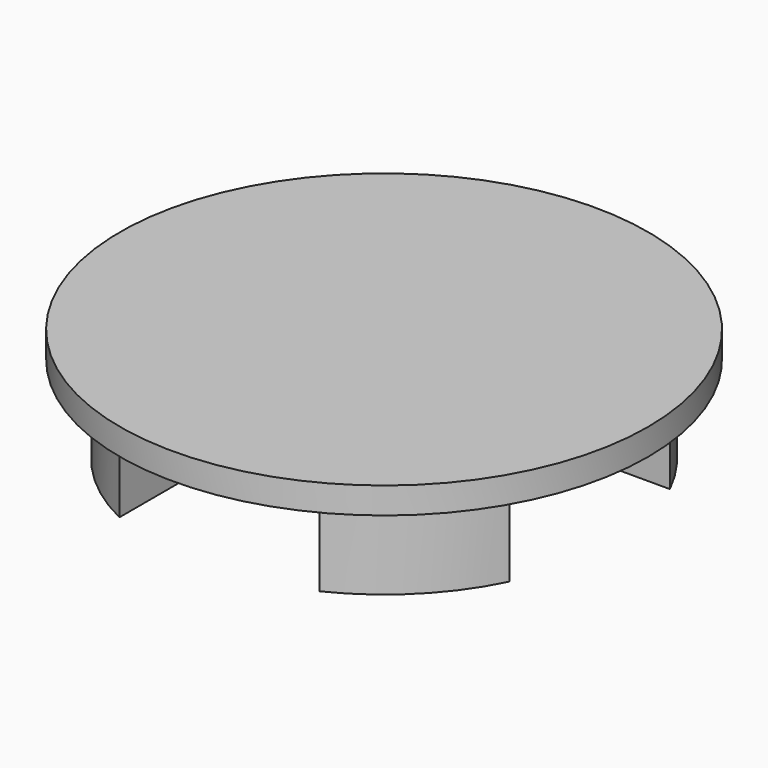
from build123d import *

# Parameters (mm, degrees)
F1_DEPTH = 10
F0_R     = 30
F2_DEPTH = 3


with BuildPart() as f1:
    # F0 (on Top) → F1 (new body)
    with BuildSketch(Plane.XY):
        with BuildLine():
            ThreePointArc((-23.378147, -11.378147), (-18.384776, -18.384776), (-11.378147, -23.378147))
            Line((-11.378147, -23.378147), (-11.378147, -11.378147))
            Line((-11.378147, -11.378147), (-23.378147, -11.378147))
        make_face()
        with BuildLine():
            ThreePointArc((11.378147, -23.378147), (18.384776, -18.384776), (23.378147, -11.378147))
            Line((23.378147, -11.378147), (11.378147, -11.378147))
            Line((11.378147, -11.378147), (11.378147, -23.378147))
        make_face()
        with BuildLine():
            Line((11.378147, 11.378147), (23.378147, 11.378147))
            ThreePointArc((23.378147, 11.378147), (18.384776, 18.384776), (11.378147, 23.378147))
            Line((11.378147, 23.378147), (11.378147, 11.378147))
        make_face()
        with BuildLine():
            Line((-11.378147, 11.378147), (-11.378147, 23.378147))
            ThreePointArc((-11.378147, 23.378147), (-18.384776, 18.384776), (-23.378147, 11.378147))
            Line((-23.378147, 11.378147), (-11.378147, 11.378147))
        make_face()
    extrude(amount=-F1_DEPTH)

    # F0 (on Top) → F2 (join)
    with BuildSketch(Plane.XY):
        Circle(F0_R)
        with BuildLine():
            ThreePointArc((23.378147, 11.378147), (25.33606, 5.838158), (26, 0))
            ThreePointArc((26, 0), (25.33606, -5.838158), (23.378147, -11.378147))
            ThreePointArc((23.378147, -11.378147), (18.384776, -18.384776), (11.378147, -23.378147))
            ThreePointArc((11.378147, -23.378147), (0, -26), (-11.378147, -23.378147))
            ThreePointArc((-11.378147, -23.378147), (-18.384776, -18.384776), (-23.378147, -11.378147))
            ThreePointArc((-23.378147, -11.378147), (-26, 0), (-23.378147, 11.378147))
            ThreePointArc((-23.378147, 11.378147), (-18.384776, 18.384776), (-11.378147, 23.378147))
            ThreePointArc((-11.378147, 23.378147), (0, 26), (11.378147, 23.378147))
            ThreePointArc((11.378147, 23.378147), (18.384776, 18.384776), (23.378147, 11.378147))
        make_face(mode=Mode.SUBTRACT)
        with BuildLine():
            Line((-11.378147, 11.378147), (-11.378147, 23.378147))
            ThreePointArc((-11.378147, 23.378147), (-18.384776, 18.384776), (-23.378147, 11.378147))
            Line((-23.378147, 11.378147), (-11.378147, 11.378147))
        make_face()
        with BuildLine():
            Line((11.378147, 11.378147), (23.378147, 11.378147))
            ThreePointArc((23.378147, 11.378147), (18.384776, 18.384776), (11.378147, 23.378147))
            Line((11.378147, 23.378147), (11.378147, 11.378147))
        make_face()
        with BuildLine():
            ThreePointArc((11.378147, -23.378147), (18.384776, -18.384776), (23.378147, -11.378147))
            Line((23.378147, -11.378147), (11.378147, -11.378147))
            Line((11.378147, -11.378147), (11.378147, -23.378147))
        make_face()
        with BuildLine():
            ThreePointArc((-23.378147, -11.378147), (-18.384776, -18.384776), (-11.378147, -23.378147))
            Line((-11.378147, -23.378147), (-11.378147, -11.378147))
            Line((-11.378147, -11.378147), (-23.378147, -11.378147))
        make_face()
        with BuildLine():
            ThreePointArc((23.378147, -11.378147), (25.33606, -5.838158), (26, 0))
            ThreePointArc((26, 0), (25.33606, 5.838158), (23.378147, 11.378147))
            Line((23.378147, 11.378147), (11.378147, 11.378147))
            Line((11.378147, 11.378147), (11.378147, 23.378147))
            ThreePointArc((11.378147, 23.378147), (0, 26), (-11.378147, 23.378147))
            Line((-11.378147, 23.378147), (-11.378147, 11.378147))
            Line((-11.378147, 11.378147), (-23.378147, 11.378147))
            ThreePointArc((-23.378147, 11.378147), (-26, 0), (-23.378147, -11.378147))
            Line((-23.378147, -11.378147), (-11.378147, -11.378147))
            Line((-11.378147, -11.378147), (-11.378147, -23.378147))
            ThreePointArc((-11.378147, -23.378147), (0, -26), (11.378147, -23.378147))
            Line((11.378147, -23.378147), (11.378147, -11.378147))
            Line((11.378147, -11.378147), (23.378147, -11.378147))
        make_face()
    extrude(amount=F2_DEPTH)


solid = f1.part
